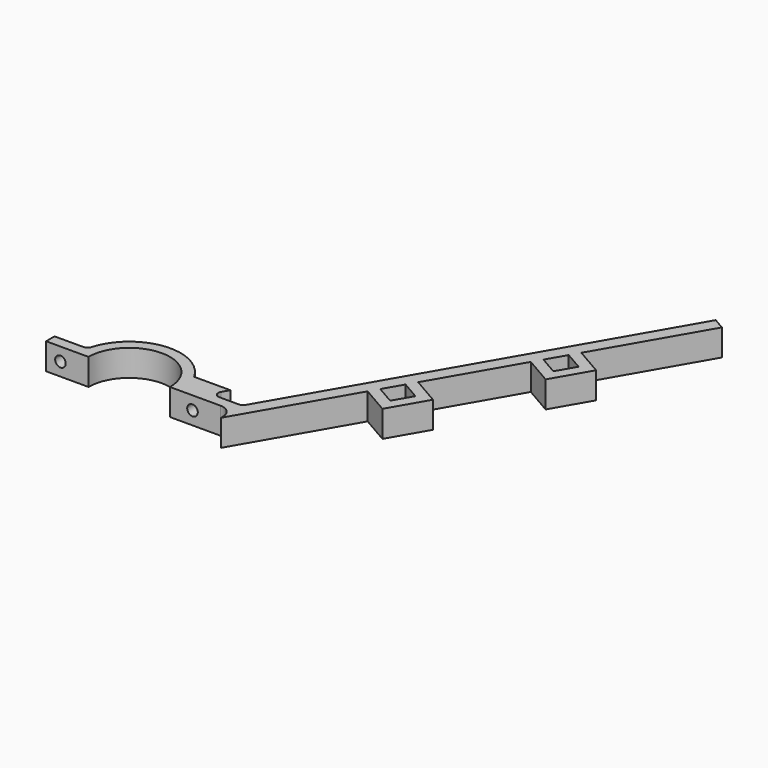
from build123d import *

# Parameters (mm, degrees)
F1_DEPTH = 10
F2_R     = 2
F3_DEPTH = 10.001
F4_R     = 2
F5_DEPTH = 15.530304


with BuildPart() as f1:
    # F0 (on Top) → F1 (new body)
    with BuildSketch(Plane.XY):
        with BuildLine():
            ThreePointArc((-15.4, 0), (0, 15.4), (15.4, 0))
            Line((15.4, 0), (19.4, 0))
            Line((19.4, 0), (34.4, 0))
            ThreePointArc((34.4, 0), (37.935534, -1.464466), (39.4, -5))
            Line((39.4, -5), (39.4, -6))
            Line((39.4, -6), (62.642914, 34.257907))
            Line((62.642914, 34.257907), (64.642914, 37.722009))
            Line((64.642914, 37.722009), (68.642914, 44.650212))
            Line((68.642914, 44.650212), (70.642914, 48.114314))
            Line((70.642914, 48.114314), (88.473701, 78.998144))
            Line((88.473701, 78.998144), (90.473701, 82.462245))
            Line((90.473701, 82.462245), (94.473701, 89.390449))
            Line((94.473701, 89.390449), (96.473701, 92.85455))
            Line((96.473701, 92.85455), (118.730127, 131.403811))
            Line((118.730127, 131.403811), (116.132051, 132.903811))
            Line((116.132051, 132.903811), (114.4, 133.903811))
            Line((114.4, 133.903811), (39.97735, 5))
            ThreePointArc((39.97735, 5), (39.245299, 4.267949), (38.245299, 4))
            Line((38.245299, 4), (30.864102, 4))
            ThreePointArc((30.864102, 4), (29.132051, 5), (29.132051, 7))
            Line((29.132051, 7), (30.592345, 9.529304))
            Line((30.592345, 9.529304), (16.898295, 9.529304))
            ThreePointArc((16.898295, 9.529304), (-2.219193, 19.272654), (-18.621883, 5.439252))
            ThreePointArc((-18.621883, 5.439252), (-19.341977, 4.399766), (-20.541665, 4))
            Line((-20.541665, 4), (-31.4, 4))
            Line((-31.4, 4), (-31.4, 0))
            Line((-31.4, 0), (-19.4, 0))
            Line((-19.4, 0), (-15.4, 0))
        make_face()
        Polygon((64.642914, 37.722009), (62.642914, 34.257907), (73.035219, 28.257907), (81.035219, 42.114314), (70.642914, 48.114314), (68.642914, 44.650212), (75.571117, 40.650212), (71.571117, 33.722009), align=None)
        Polygon((90.473701, 82.462245), (88.473701, 78.998144), (98.866006, 72.998144), (106.866006, 86.85455), (96.473701, 92.85455), (94.473701, 89.390449), (101.401904, 85.390449), (97.401904, 78.462245), align=None)
    extrude(amount=F1_DEPTH)

    # F2 (on face) → F3 (cut, through all)
    with BuildSketch(Plane(origin=(0, 4, 0), x_dir=(-1, 0, 0), z_dir=(0, 1, 0))):
        with Locations((25.970832, 5)):
            Circle(F2_R)
    extrude(amount=-F3_DEPTH, mode=Mode.SUBTRACT)

    # F4 (on face) → F5 (cut, through all)
    with BuildSketch(Plane(origin=(0, 9.529304, 0), x_dir=(-1, 0, 0), z_dir=(0, 1, 0))):
        with Locations((-23.898295, 5)):
            Circle(F4_R)
    extrude(amount=-F5_DEPTH, mode=Mode.SUBTRACT)


solid = f1.part
